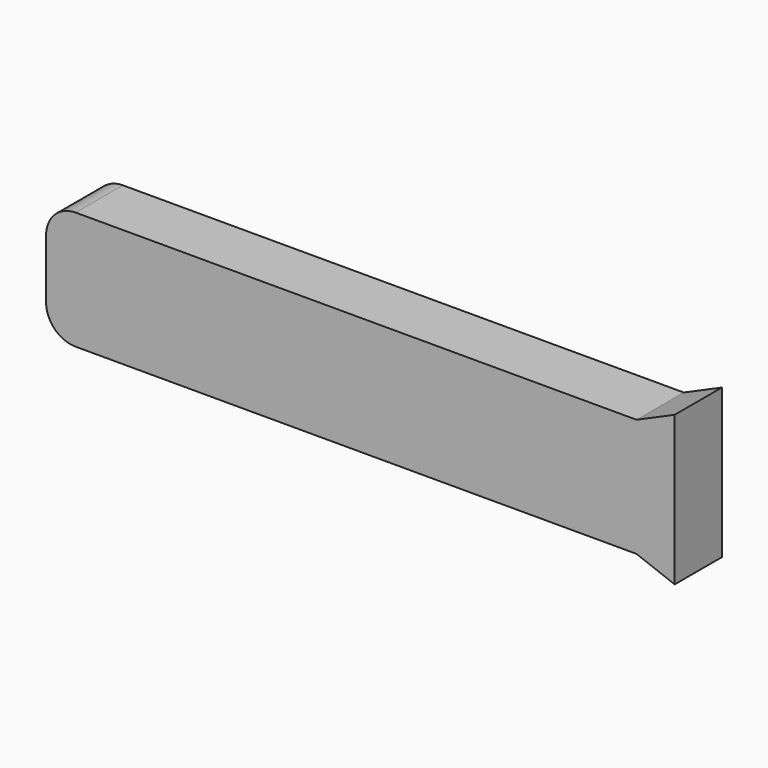
from build123d import *

# Parameters (mm, degrees)
F1_DEPTH = 12.7


with BuildPart() as f1:
    # F0 (on Front) → F1 (new body)
    with BuildSketch(Plane.XZ):
        Polygon((71.700338, 16.308149), (63.5, 12.7), (63.5, -12.7), (71.700338, -15.811923), align=None)
        with BuildLine():
            Line((63.5, 12.7), (-57.15, 12.7))
            ThreePointArc((-57.15, 12.7), (-61.640128, 10.840128), (-63.5, 6.35))
            Line((-63.5, 6.35), (-63.5, -6.35))
            ThreePointArc((-63.5, -6.35), (-61.640128, -10.840128), (-57.15, -12.7))
            Line((-57.15, -12.7), (63.5, -12.7))
            Line((63.5, -12.7), (63.5, 12.7))
        make_face()
    extrude(amount=F1_DEPTH)


solid = f1.part
